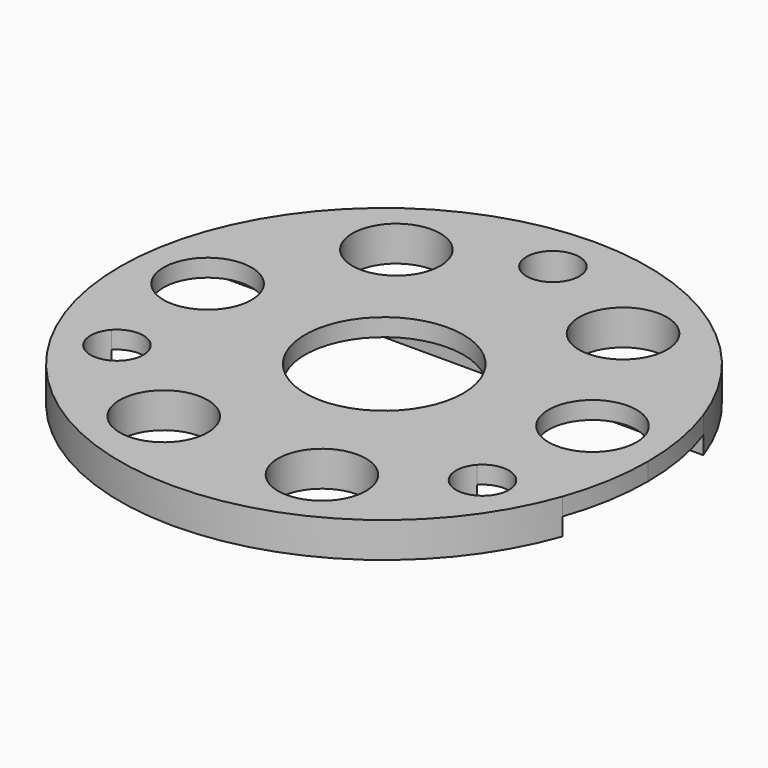
from build123d import *

# Parameters (mm, degrees)
F0_R     = 2.5
F0_R_2   = 1.5
F0_R_3   = 4.5
F1_DEPTH = 2
F2_DEPTH = 1


with BuildPart() as f1:
    # F0 (on Top) → F1 (new body)
    with BuildSketch(Plane.XY):
        with BuildLine():
            Line((-14.139053, 5.008712), (14.139053, 5.008712))
            ThreePointArc((14.139053, 5.008712), (0, 15), (-14.139053, 5.008712))
        make_face()
        with Locations((-6.439687, 8.926135)):
            Circle(F0_R, mode=Mode.SUBTRACT)
        with Locations((6.450313, 8.92)):
            Circle(F0_R, mode=Mode.SUBTRACT)
        with Locations((0, 12)):
            Circle(F0_R_2, mode=Mode.SUBTRACT)
        with BuildLine():
            ThreePointArc((-14.145213, -4.991288), (0, -15), (14.145213, -4.991288))
            Line((14.145213, -4.991288), (11.507424, -4.991288))
            ThreePointArc((11.507424, -4.991288), (11.789805, -5.455574), (11.888239, -5.99))
            ThreePointArc((11.888239, -5.99), (9.853813, -7.391567), (9.269054, -4.991288))
            Line((9.269054, -4.991288), (-9.267814, -4.991288))
            ThreePointArc((-9.267814, -4.991288), (-8.984465, -5.456126), (-8.885678, -5.991479))
            ThreePointArc((-8.885678, -5.991479), (-10.92103, -7.392692), (-11.503541, -4.991288))
            Line((-11.503541, -4.991288), (-14.145213, -4.991288))
        make_face()
        with Locations((-4.497559, -10.03)):
            Circle(F0_R, mode=Mode.SUBTRACT)
        with Locations((4.497559, -10.03)):
            Circle(F0_R, mode=Mode.SUBTRACT)
        with BuildLine():
            ThreePointArc((14.145213, -4.991288), (14.784759, -2.531977), (15, 0))
            ThreePointArc((15, 0), (14.783196, 2.541084), (14.139053, 5.008712))
            Line((14.139053, 5.008712), (-14.139053, 5.008712))
            ThreePointArc((-14.139053, 5.008712), (-14.999997, 0.00924), (-14.145213, -4.991288))
            Line((-14.145213, -4.991288), (-11.503541, -4.991288))
            ThreePointArc((-11.503541, -4.991288), (-10.385678, -4.491479), (-9.267814, -4.991288))
            Line((-9.267814, -4.991288), (9.269054, -4.991288))
            ThreePointArc((9.269054, -4.991288), (10.388239, -4.49), (11.507424, -4.991288))
            Line((11.507424, -4.991288), (14.145213, -4.991288))
        make_face()
        with Locations((-10.937246, 1.136135)):
            Circle(F0_R, mode=Mode.SUBTRACT)
        with Locations((0.003542, 0.008712)):
            Circle(F0_R_3, mode=Mode.SUBTRACT)
        with Locations((10.947872, 1.13)):
            Circle(F0_R, mode=Mode.SUBTRACT)
    extrude(amount=F1_DEPTH)

    # F0 (on Top) → F2 (cut)
    with BuildSketch(Plane.XY):
        with BuildLine():
            ThreePointArc((14.145213, -4.991288), (14.784759, -2.531977), (15, 0))
            ThreePointArc((15, 0), (14.783196, 2.541084), (14.139053, 5.008712))
            Line((14.139053, 5.008712), (-14.139053, 5.008712))
            ThreePointArc((-14.139053, 5.008712), (-14.999997, 0.00924), (-14.145213, -4.991288))
            Line((-14.145213, -4.991288), (-11.503541, -4.991288))
            ThreePointArc((-11.503541, -4.991288), (-10.385678, -4.491479), (-9.267814, -4.991288))
            Line((-9.267814, -4.991288), (9.269054, -4.991288))
            ThreePointArc((9.269054, -4.991288), (10.388239, -4.49), (11.507424, -4.991288))
            Line((11.507424, -4.991288), (14.145213, -4.991288))
        make_face()
        with Locations((-10.937246, 1.136135)):
            Circle(F0_R, mode=Mode.SUBTRACT)
        with Locations((0.003542, 0.008712)):
            Circle(F0_R_3, mode=Mode.SUBTRACT)
        with Locations((10.947872, 1.13)):
            Circle(F0_R, mode=Mode.SUBTRACT)
    extrude(amount=F2_DEPTH, mode=Mode.SUBTRACT)


solid = f1.part
